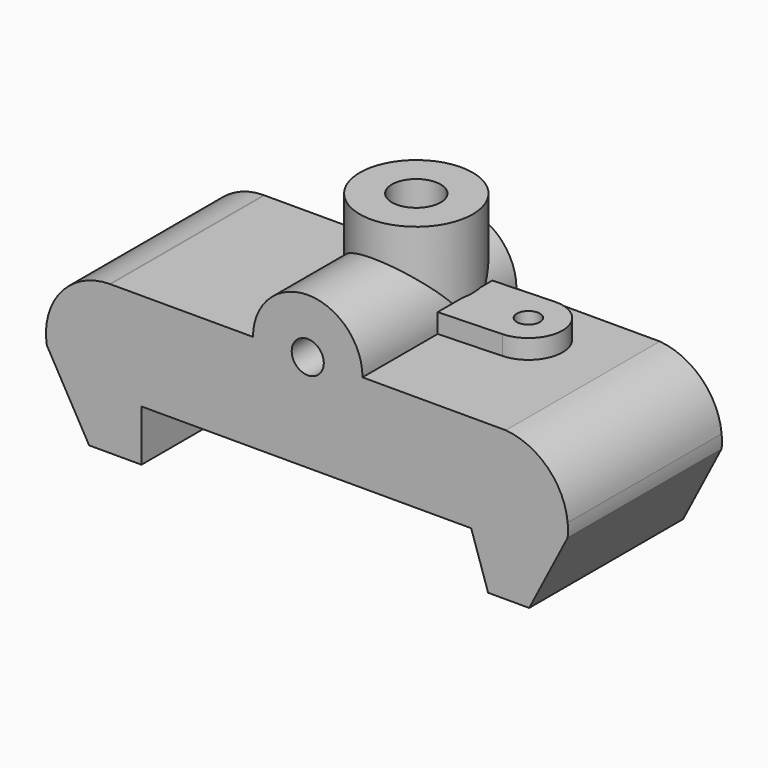
from build123d import *

# Parameters (mm, degrees)
F1_DEPTH = 38.1
F2_R     = 11.176
F3_DEPTH = 17.526
F5_D     = 9.652
F7_DEPTH = 3.81
F9_D     = 4.572
F11_D    = 6.35


with BuildPart() as f1:
    # F0 (on Front) → F1 (new body)
    with BuildSketch(Plane.XZ):
        with BuildLine():
            Line((-51.562, 0), (-43.18, -14.732))
            Line((-43.18, -14.732), (-32.8198596835, -14.732))
            Line((-32.8198596835, -14.732), (-32.8198596835, -4.572))
            Line((-32.8198596835, -4.572), (32.4581403165, -4.572))
            Line((32.4581403165, -4.572), (35.814, -14.732))
            Line((35.814, -14.732), (43.942, -14.732))
            Line((43.942, -14.732), (51.562, 0))
            Line((51.562, 0), (51.562, 2.6228378818))
            ThreePointArc((51.562, 2.6228378818), (47.6245523403, 10.89201932), (39.3096618354, 14.732))
            Line((39.3096618354, 14.732), (10.9417002025, 14.732))
            ThreePointArc((10.9417002025, 14.732), (0.0985790513, 25.5751211511), (-10.7445420998, 14.732))
            Line((-10.7445420998, 14.732), (-38.9388203621, 14.732))
            Line((-38.9388203621, 14.732), (-39.1125037328, 14.732))
            ThreePointArc((-39.1125037328, 14.732), (-47.2891089477, 11.676229996), (-51.562, 4.0645938241))
            Line((-51.562, 4.0645938241), (-51.562, 0))
        make_face()
        with BuildLine():
            ThreePointArc((-51.562, 4.0645938241), (-51.7256620474, 2.0322969121), (-51.562, 0))
            Line((-51.562, 0), (-51.562, 4.0645938241))
        make_face()
        with BuildLine():
            ThreePointArc((-38.9388203621, 14.732), (-39.0256620474, 14.7322969121), (-39.1125037328, 14.732))
            Line((-39.1125037328, 14.732), (-38.9388203621, 14.732))
        make_face()
        with BuildLine():
            Line((51.562, 2.6228378818), (51.562, 0))
            ThreePointArc((51.562, 0), (51.6259904882, 1.3114189409), (51.562, 2.6228378818))
        make_face()
    extrude(amount=F1_DEPTH)

    # F2 (on face) → F3 (join)
    with BuildSketch(Plane.XY.offset(14.732)):
        with Locations((0, -11.1125)):
            Circle(F2_R)
    extrude(amount=F3_DEPTH)

    # F5 (through all)
    with Locations(Plane.XY.offset(32.258)):
        with Locations((0, -11.1125)):
            Hole(F5_D / 2)

    # F6 (on face) → F7 (join)
    with BuildSketch(Plane.XY.offset(14.732)):
        with BuildLine():
            Line((10.9417002025, -19.4975990474), (23.3632903546, -19.0058518201))
            ThreePointArc((23.3632903546, -19.0058518201), (29.8632890709, -11.9593614946), (22.8070225567, -5.4699769244))
            Line((22.8070225567, -5.4699769244), (10.9417002025, -5.9754836616))
            Line((10.9417002025, -5.9754836616), (10.9417002025, -8.8360614044))
            ThreePointArc((10.9417002025, -8.8360614044), (11.1172707411, -9.9682678257), (11.176, -11.1125))
            ThreePointArc((11.176, -11.1125), (11.1172707411, -12.2567321743), (10.9417002025, -13.3889385956))
            Line((10.9417002025, -13.3889385956), (10.9417002025, -19.4975990474))
        make_face()
    extrude(amount=F7_DEPTH)

    # F9 (through all)
    with Locations(Plane.XY.offset(18.542)):
        with Locations((23.0953439556, -12.2374957086)):
            Hole(F9_D / 2)

    # F11 (through all)
    with Locations(Plane.XZ.offset(38.1)):
        with Locations((0.0985790513, 14.732)):
            Hole(F11_D / 2)


solid = f1.part
